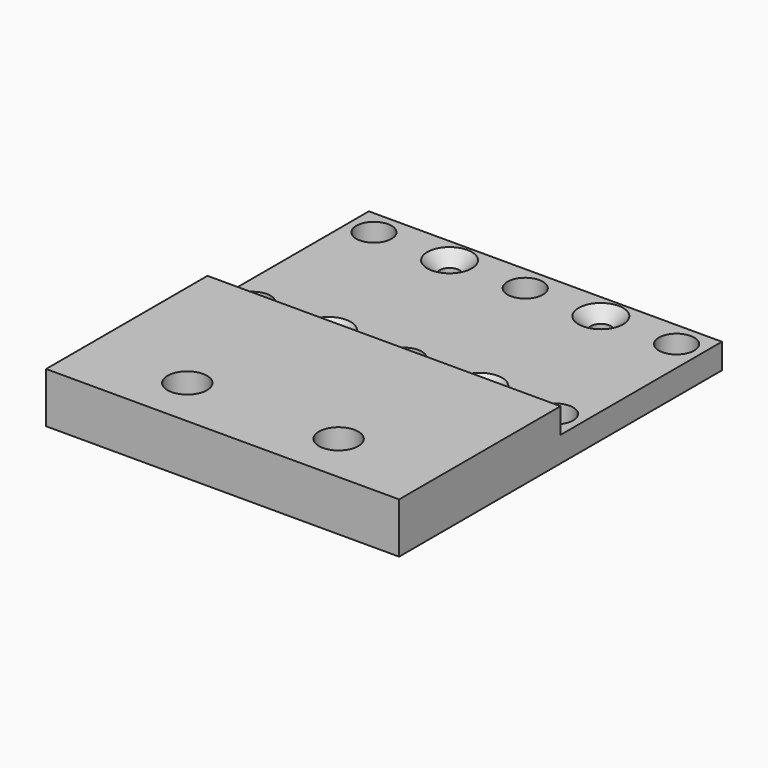
from build123d import *

# Parameters (mm, degrees)
F0_W     = 88.9
F0_H     = 101.6
F0_R     = 4.445
F0_R_2   = 2.5527
F1_DEPTH = 6.35
F2_W     = 88.9
F2_H     = 50.8
F3_DEPTH = 6.35
F4_R     = 4.96062
F5_DEPTH = 25.4
F6_SIZE  = 3.048


with BuildPart() as f1:
    # F0 (on Top) → F1 (new body)
    with BuildSketch(Plane.XY):
        Rectangle(F0_W, F0_H)
        with Locations((-38.1, 6.35)):
            Circle(F0_R, mode=Mode.SUBTRACT)
        with Locations((-19.05, 6.35)):
            Circle(F0_R_2, mode=Mode.SUBTRACT)
        with Locations((-38.1, 44.45)):
            Circle(F0_R, mode=Mode.SUBTRACT)
        with Locations((-19.05, 44.45)):
            Circle(F0_R_2, mode=Mode.SUBTRACT)
        with Locations((0, 6.35)):
            Circle(F0_R, mode=Mode.SUBTRACT)
        with Locations((19.05, 6.35)):
            Circle(F0_R_2, mode=Mode.SUBTRACT)
        with Locations((38.1, 6.35)):
            Circle(F0_R, mode=Mode.SUBTRACT)
        with Locations((0, 44.45)):
            Circle(F0_R, mode=Mode.SUBTRACT)
        with Locations((19.05, 44.45)):
            Circle(F0_R_2, mode=Mode.SUBTRACT)
        with Locations((38.1, 44.45)):
            Circle(F0_R, mode=Mode.SUBTRACT)
    extrude(amount=F1_DEPTH)

    # F2 (on face) → F3 (join)
    with BuildSketch(Plane.XY.offset(6.35)):
        with Locations((0, -25.4)):
            Rectangle(F2_W, F2_H)
    extrude(amount=F3_DEPTH)

    # F4 (on face) → F5 (cut)
    with BuildSketch(Plane.XY.offset(12.7)):
        with Locations((-19.05, -38.1)):
            Circle(F4_R)
        with Locations((19.05, -38.1)):
            Circle(F4_R)
    extrude(amount=-F5_DEPTH, mode=Mode.SUBTRACT)

    # F6
    f6_edges = [f1.edges().sort_by_distance(p)[0] for p in [
        (-21.6027, 44.45, 6.35),
        (16.4973, 44.45, 6.35),
        (16.4973, 6.35, 6.35),
        (-21.6027, 6.35, 6.35),
    ]]
    chamfer(f6_edges, length=F6_SIZE)


solid = f1.part
